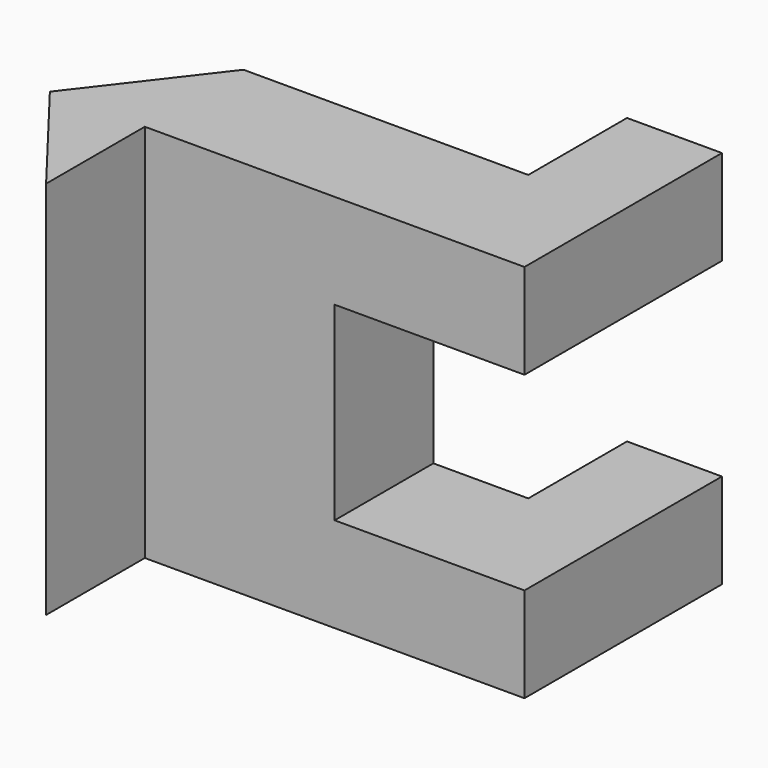
from build123d import *

# Parameters (mm, degrees)
F1_DEPTH = 20
F2_W     = 20
F2_H     = 20
F3_DEPTH = 26.001
F5_DEPTH = 40.001
F7_DEPTH = 40.001


with BuildPart() as f1:
    # F0 (on Top) → F1 (new body, symmetric)
    with BuildSketch(Plane.XY):
        Polygon((0, 26), (0, 0), (10, 0), (10, 13), (50, 13), (50, 39), (40, 39), (40, 26), align=None)
    extrude(amount=F1_DEPTH, both=True)

    # F2 (on face) → F3 (cut, through all)
    with BuildSketch(Plane.XZ.offset(-13)):
        with Locations((40, 0)):
            Rectangle(F2_W, F2_H)
    extrude(amount=-F3_DEPTH, mode=Mode.SUBTRACT)

    # F4 (on face) → F5 (cut, through all)
    with BuildSketch(Plane.XY.offset(20)):
        Polygon((0, 0), (10, 0), (0, 13), align=None)
    extrude(amount=-F5_DEPTH, mode=Mode.SUBTRACT)

    # F6 (on face) → F7 (cut, through all)
    with BuildSketch(Plane.XY.offset(20)):
        Polygon((0, 13), (10, 26), (0, 26), align=None)
    extrude(amount=-F7_DEPTH, mode=Mode.SUBTRACT)


solid = f1.part
